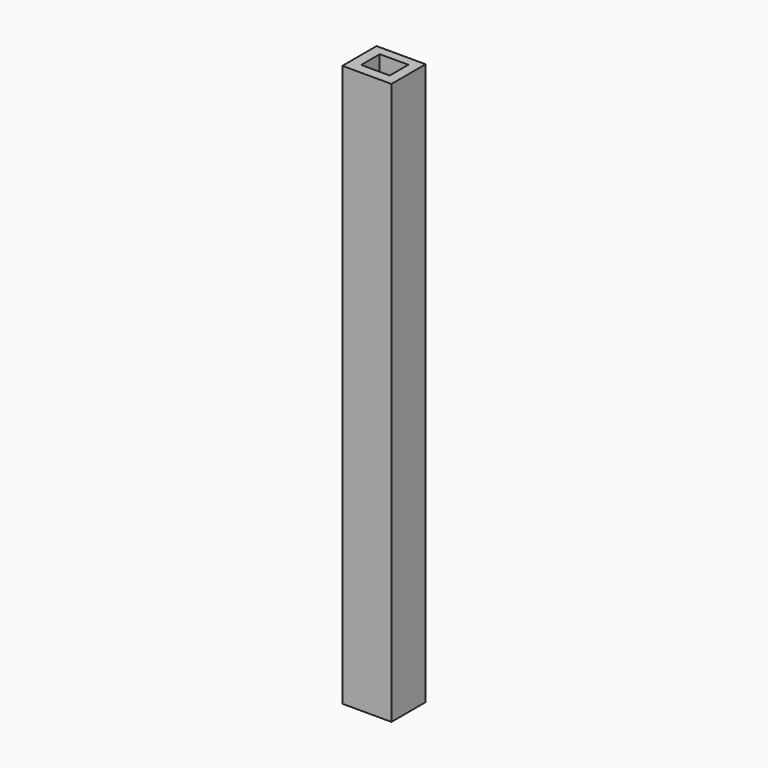
from build123d import *

# Parameters (mm, degrees)
F0_W          = 11.103749
F0_H          = 9.660949
F1_DEPTH      = 127
F2_W          = 6.47237
F2_H          = 5.259421
F3_DEPTH      = 127.2
F3_DEPTH_BACK = 25


with BuildPart() as f1:
    # F0 (on Top) → F1 (new body)
    with BuildSketch(Plane.XY):
        with Locations((5.551874, 4.830474)):
            Rectangle(F0_W, F0_H)
    extrude(amount=F1_DEPTH)

    # F2 (on face) → F3 (cut, two sides)
    with BuildSketch(Plane.XY.offset(127)) as f3_sk:
        with Locations((5.614131, 4.965422)):
            Rectangle(F2_W, F2_H)
    extrude(amount=-F3_DEPTH, mode=Mode.SUBTRACT)
    extrude(f3_sk.sketch, amount=-F3_DEPTH_BACK, mode=Mode.SUBTRACT)


solid = f1.part
